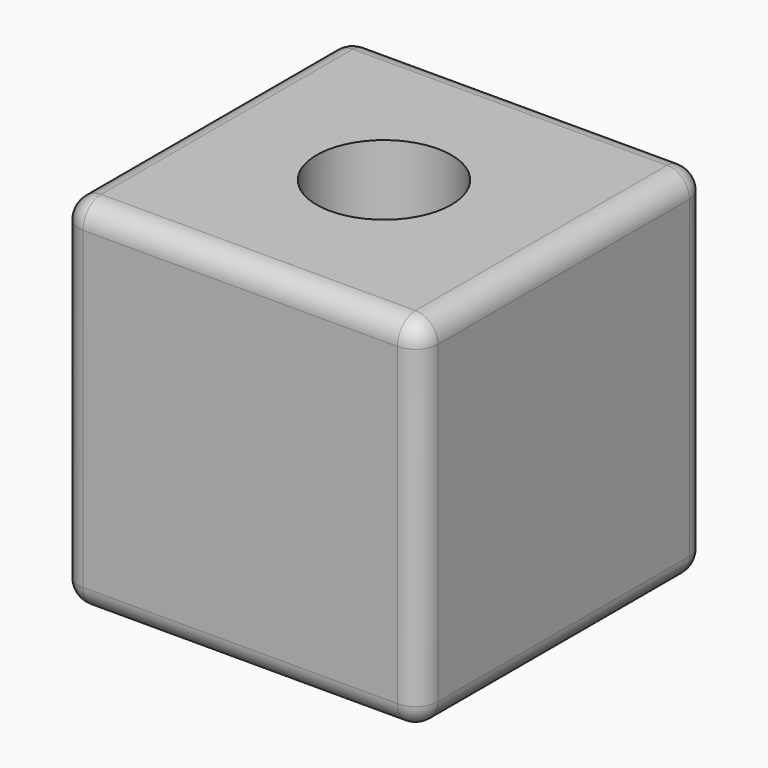
from build123d import *

# Parameters (mm, degrees)
F0_W     = 80
F0_H     = 80
F1_DEPTH = 40
F2_R     = 5
F3_R     = 15
F4_DEPTH = 40.001


with BuildPart() as f1:
    # F0 (on Top) → F1 (new body, symmetric)
    with BuildSketch(Plane.XY):
        Rectangle(F0_W, F0_H)
    extrude(amount=F1_DEPTH, both=True)

    # F2
    f2_edges = [f1.edges().sort_by_distance(p)[0] for p in [
        (0, 40, 40),
        (-40, 0, 40),
        (0, -40, 40),
        (40, 0, 40),
        (40, -40, 0),
        (40, 40, 0),
        (40, 0, -40),
        (0, -40, -40),
        (-40, -40, 0),
        (-40, 0, -40),
        (0, 40, -40),
        (-40, 40, 0),
    ]]
    fillet(f2_edges, radius=F2_R)

    # F3 (on Top) → F4 (cut, through all)
    with BuildSketch(Plane.XY):
        Circle(F3_R)
    extrude(amount=F4_DEPTH, mode=Mode.SUBTRACT)


solid = f1.part
